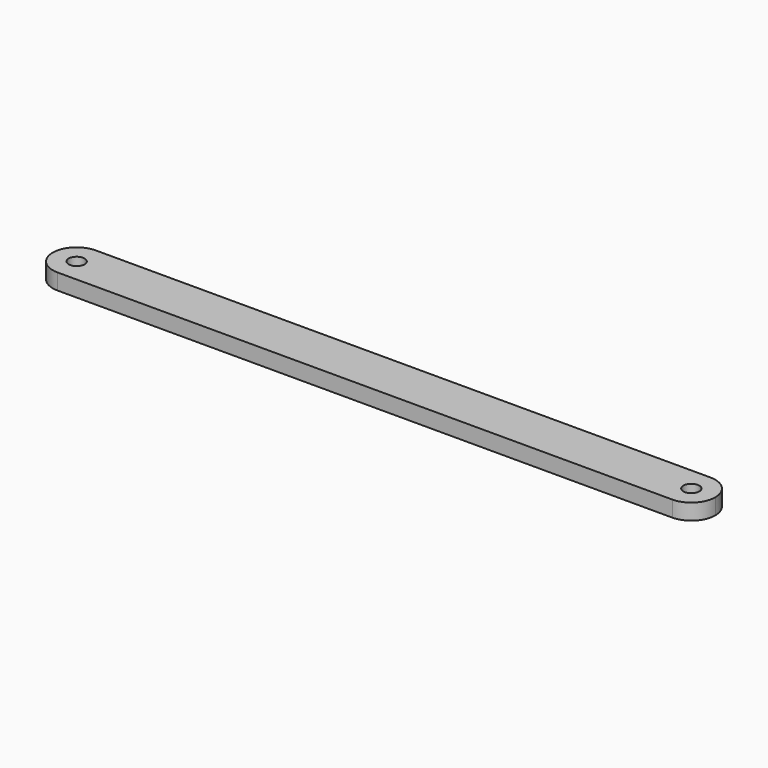
from build123d import *

# Parameters (mm, degrees)
F0_R     = 2.5
F1_DEPTH = 5
F2_R     = 2.5
F3_DEPTH = 25


with BuildPart() as f1:
    # F0 (on Top) → F1 (new body)
    with BuildSketch(Plane.XY):
        with BuildLine():
            ThreePointArc((193, -7.5), (200.5, 0), (193, 7.5))
            Line((193, 7.5), (-193, 7.5))
            ThreePointArc((-193, 7.5), (-200.5, 0), (-193, -7.5))
            Line((-193, -7.5), (193, -7.5))
        make_face()
        with Locations((-193, 0)):
            Circle(F0_R, mode=Mode.SUBTRACT)
        Circle(F0_R, mode=Mode.SUBTRACT)
        with Locations((193, 0)):
            Circle(F0_R, mode=Mode.SUBTRACT)
    extrude(amount=F1_DEPTH)

    # F2 (on face) → F3 (cut)
    with BuildSketch(Plane.XY.offset(5)):
        Circle(F2_R)
        with BuildLine():
            ThreePointArc((0, 7.5), (5.303301, 5.303301), (7.5, 0))
            ThreePointArc((7.5, 0), (5.303301, -5.303301), (0, -7.5))
            Line((0, -7.5), (193, -7.5))
            ThreePointArc((193, -7.5), (200.5, 0), (193, 7.5))
            Line((193, 7.5), (0, 7.5))
        make_face()
        with Locations((193, 0)):
            Circle(F2_R, mode=Mode.SUBTRACT)
    extrude(amount=-F3_DEPTH, mode=Mode.SUBTRACT)


solid = f1.part
